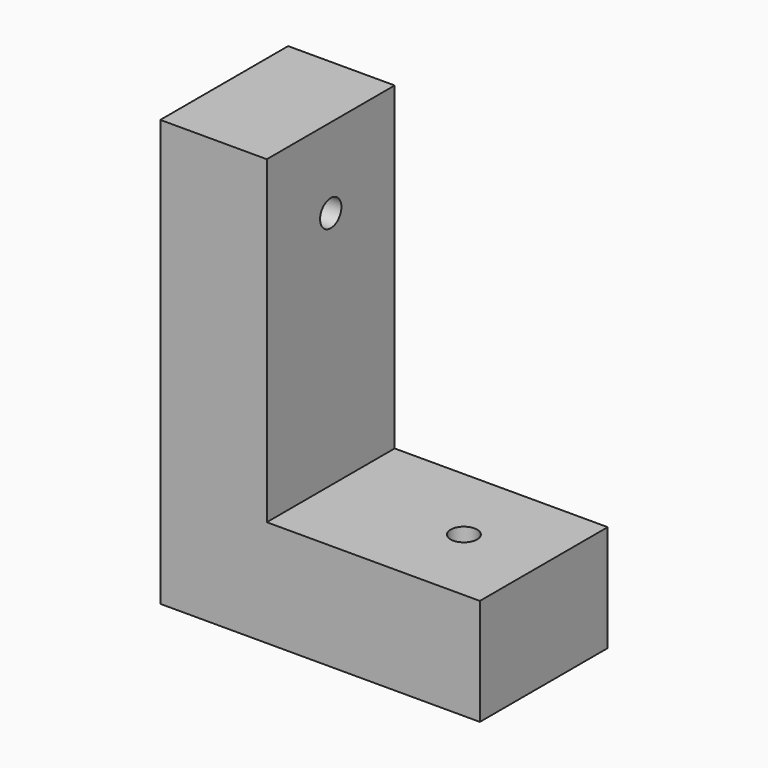
from build123d import *

# Parameters (mm, degrees)
F1_DEPTH = 76.2
F4_D     = 12.7
F6_D     = 12.7


with BuildPart() as f1:
    # F0 (on Front) → F1 (new body)
    with BuildSketch(Plane.XZ):
        Polygon((0, 103.467127), (-50.8, 103.467127), (-50.8, -99.732873), (101.6, -99.732873), (101.6, -48.932873), (0, -48.932873), align=None)
    extrude(amount=F1_DEPTH)

    # F4 (through all)
    with Locations(Plane.YZ):
        with Locations((-38.1, 65.367127)):
            Hole(F4_D / 2)

    # F6 (through all)
    with Locations(Plane.XY.offset(-48.932873)):
        with Locations((63.5, -38.1)):
            Hole(F6_D / 2)


solid = f1.part
